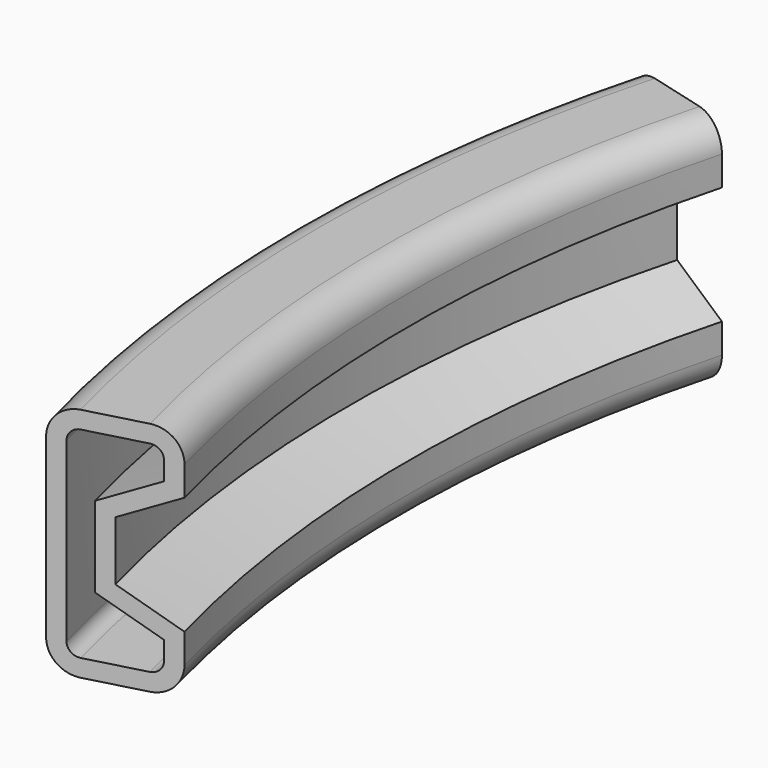
from build123d import *

# Parameters (mm, degrees)
F1_ANGLE = 30
F3_ANGLE = 3


with BuildPart() as f1:
    # F0 (on Front) → F1 (revolve, symmetric)
    with BuildSketch(Plane.XZ) as f1_sk:
        with BuildLine():
            Line((-36.445543, 37.056317), (-49.145543, 37.056317))
            ThreePointArc((-49.145543, 37.056317), (-53.635671, 35.196445), (-55.495543, 30.706317))
            Line((-55.495543, 30.706317), (-55.495543, -7.393194))
            ThreePointArc((-55.495543, -7.393194), (-53.635671, -11.883322), (-49.145543, -13.743194))
            Line((-49.145543, -13.743194), (-36.445543, -13.743194))
            ThreePointArc((-36.445543, -13.743194), (-31.955415, -11.883322), (-30.095543, -7.393194))
            Line((-30.095543, -7.393194), (-30.095543, -1.043439))
            Line((-30.095543, -1.043439), (-42.795543, 5.306317))
            Line((-42.795543, 5.306317), (-42.795543, 18.006317))
            Line((-42.795543, 18.006317), (-30.095543, 24.356317))
            Line((-30.095543, 24.356317), (-30.095543, 30.706317))
            ThreePointArc((-30.095543, 30.706317), (-31.955415, 35.196445), (-36.445543, 37.056317))
        make_face()
    revolve(axis=Axis((249.304457, 0, 5.828281), (0, 0, -1)), revolution_arc=F1_ANGLE / 2)
    revolve(f1_sk.sketch, axis=Axis((249.304457, 0, 5.828281), (0, 0, 1)), revolution_arc=F1_ANGLE / 2)

    # F2 (on face) → F3 (revolve)
    with BuildSketch(Plane(origin=(16.700232, -62.326114, 0), x_dir=(0.965926, 0.258819, 0), z_dir=(0.258819, -0.965926, 0))):
        with BuildLine():
            Line((-42.402958, 26.712616), (-42.402958, 30.706317))
            ThreePointArc((-42.402958, 30.706317), (-43.146153, 32.50055), (-44.940386, 33.243746))
            Line((-44.940386, 33.243746), (-57.640386, 33.243746))
            ThreePointArc((-57.640386, 33.243746), (-59.434619, 32.50055), (-60.177815, 30.706317))
            Line((-60.177815, 30.706317), (-60.177815, -7.393194))
            ThreePointArc((-60.177815, -7.393194), (-59.434619, -9.187427), (-57.640386, -9.930623))
            Line((-57.640386, -9.930623), (-44.940386, -9.930623))
            ThreePointArc((-44.940386, -9.930623), (-43.146153, -9.187427), (-42.402958, -7.393194))
            Line((-42.402958, -7.393194), (-42.402958, -3.399778))
            Line((-42.402958, -3.399778), (-55.102958, 2.949978))
            Line((-55.102958, 2.949978), (-55.102958, 20.362616))
            Line((-55.102958, 20.362616), (-42.402958, 26.712616))
        make_face()
    revolve(axis=Axis((249.304457, 0, 17.638403), (0, 0, 1)), revolution_arc=F3_ANGLE)

    # F4 (on face) → F5 (revolve, cut)
    with BuildSketch(Plane(origin=(16.700232, 62.326114, 0), x_dir=(-0.965926, 0.258819, 0), z_dir=(0.258819, 0.965926, 0))):
        with BuildLine():
            Line((60.236317, -7.393194), (60.236317, 30.706317))
            ThreePointArc((60.236317, 30.706317), (59.475986, 32.541917), (57.640386, 33.302248))
            Line((57.640386, 33.302248), (44.940386, 33.302248))
            ThreePointArc((44.940386, 33.302248), (43.104786, 32.541917), (42.344456, 30.706317))
            Line((42.344456, 30.706317), (42.344456, 26.67646))
            Line((42.344456, 26.67646), (55.044456, 20.32646))
            Line((55.044456, 20.32646), (55.044456, 2.986135))
            Line((55.044456, 2.986135), (42.344456, -3.363621))
            Line((42.344456, -3.363621), (42.344456, -7.393194))
            ThreePointArc((42.344456, -7.393194), (43.104786, -9.228794), (44.940386, -9.989125))
            Line((44.940386, -9.989125), (57.640386, -9.989125))
            ThreePointArc((57.640386, -9.989125), (59.475986, -9.228794), (60.236317, -7.393194))
        make_face()
    revolve(axis=Axis((249.304457, 0, 18.53192), (0, 0, 1)), mode=Mode.SUBTRACT)


solid = f1.part
